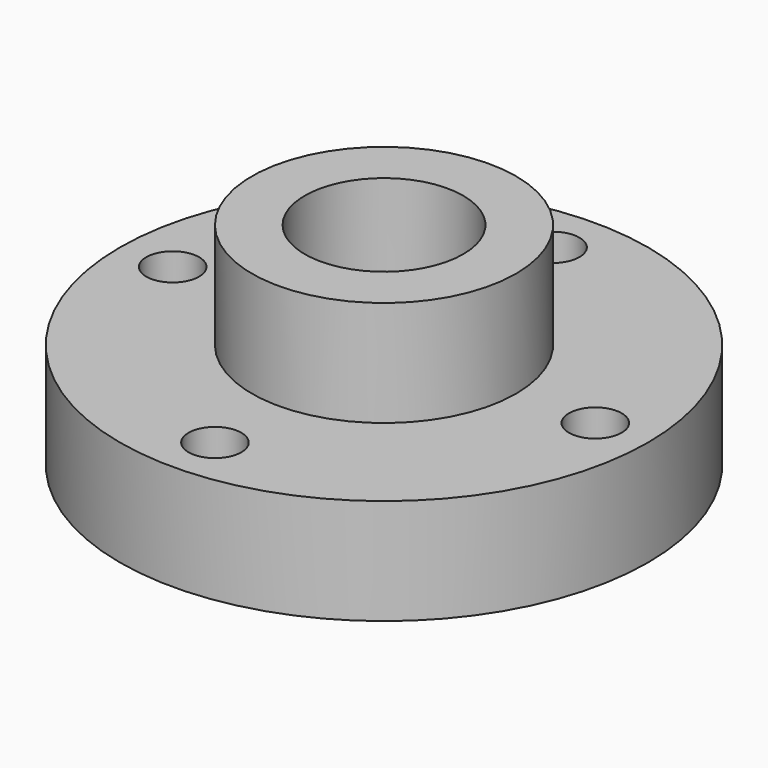
from build123d import *

# Parameters (mm, degrees)
F0_R     = 15.875
F0_R_2   = 9.525
F1_DEPTH = 25.4
F0_R_3   = 31.75
F2_DEPTH = 12.7
F3_R     = 3.175
F4_DEPTH = 12.701


with BuildPart() as f1:
    # F0 (on Top) → F1 (new body)
    with BuildSketch(Plane.XY):
        Circle(F0_R)
        Circle(F0_R_2, mode=Mode.SUBTRACT)
    extrude(amount=F1_DEPTH)

    # F0 (on Top) → F2 (join)
    with BuildSketch(Plane.XY):
        Circle(F0_R_3)
        Circle(F0_R, mode=Mode.SUBTRACT)
    extrude(amount=F2_DEPTH)

    # F3 (on face) → F4 (cut, through all)
    with BuildSketch(Plane.XY.offset(12.7)):
        with Locations((0, 25.4)):
            Circle(F3_R)
        with Locations((25.4, 0)):
            Circle(F3_R)
        with Locations((0, -25.4)):
            Circle(F3_R)
        with Locations((-25.4, 0)):
            Circle(F3_R)
    extrude(amount=-F4_DEPTH, mode=Mode.SUBTRACT)


solid = f1.part
